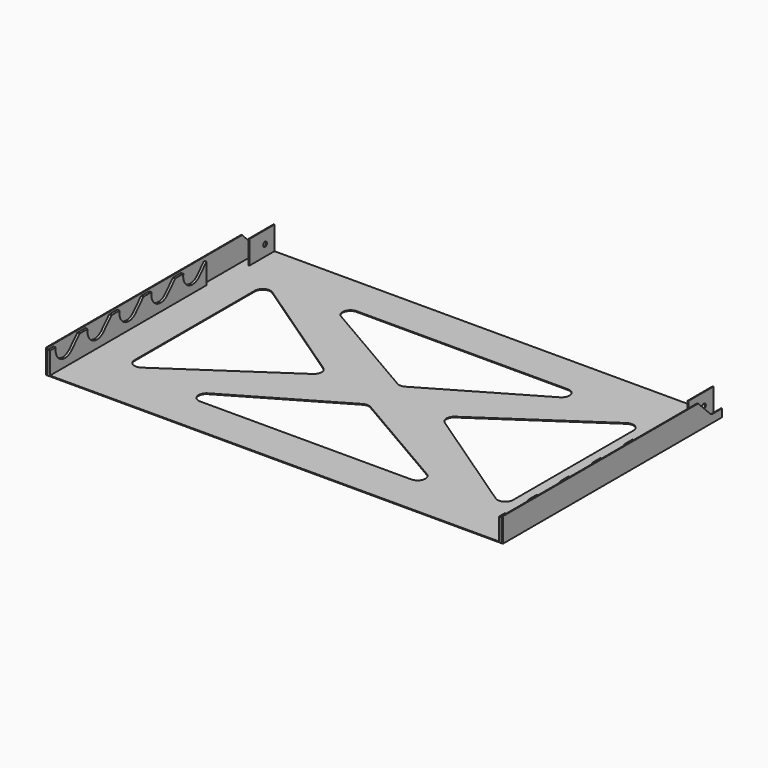
from build123d import *

# Parameters (mm, degrees)
F0_W      = 584
F0_H      = 350
F1_DEPTH  = 1
F2_W      = 1
F2_H      = 350
F3_DEPTH  = 30
F5_DEPTH  = 645
F6_W      = 1
F6_H      = 40
F7_DEPTH  = 30
F8_R      = 3
F9_DEPTH  = 565
F10_W     = 3
F10_H     = 250
F11_DEPTH = 28
F13_DEPTH = 291
F15_DEPTH = 25


with BuildPart() as f1:
    # F0 (on Top) → F1 (new body)
    with BuildSketch(Plane.XY):
        with Locations((0, -23.2696812643)):
            Rectangle(F0_W, F0_H)
    extrude(amount=F1_DEPTH)

    # F2 (on face) → F3 (join)
    with BuildSketch(Plane.XY.offset(1)):
        with Locations((-291.5, -23.2696812643)):
            Rectangle(F2_W, F2_H)
        with Locations((291.5, -23.2696812643)):
            Rectangle(F2_W, F2_H)
    extrude(amount=F3_DEPTH)

    # F4 (on face) → F5 (cut)
    with BuildSketch(Plane(origin=(-292, 0, 0), x_dir=(0, -1, 0), z_dir=(-1, 0, 0))):
        with BuildLine():
            Line((-136.7303187357, 15), (-136.7303187357, 10))
            ThreePointArc((-136.7303187357, 10), (-134.7165063478, 10.423477339), (-133.0438155245, 11.6221761335))
            ThreePointArc((-133.0438155245, 11.6221761335), (-132.0702481324, 13.1878901877), (-131.7303187357, 15))
            ThreePointArc((-131.7303187357, 15), (-132.1109210732, 16.9134171618), (-133.1947848298, 18.5355339059))
            Line((-133.1947848298, 18.5355339059), (-136.7303187357, 15))
        make_face()
        with BuildLine():
            Line((-151.7303187357, 10), (-136.7303187357, 10))
            ThreePointArc((-136.7303187357, 10), (-141.3497163983, 16.9134171618), (-133.1947848298, 18.5355339059))
            Line((-133.1947848298, 18.5355339059), (-120.7303187357, 31))
            Line((-120.7303187357, 31), (-151.7303187357, 31))
            Line((-151.7303187357, 31), (-151.7303187357, 10))
        make_face()
        with BuildLine():
            ThreePointArc((-133.1947848298, 18.5355339059), (-141.3497163983, 16.9134171618), (-136.7303187357, 10))
            Line((-136.7303187357, 10), (-136.7303187357, 15))
            Line((-136.7303187357, 15), (-133.1947848298, 18.5355339059))
        make_face()
        with BuildLine():
            ThreePointArc((-131.7303187357, 15), (-132.0702481324, 13.1878901877), (-133.0438155245, 11.6221761335))
            Line((-133.0438155245, 11.6221761335), (-113.6659916579, 31))
            Line((-113.6659916579, 31), (-120.7303187357, 31))
            Line((-120.7303187357, 31), (-133.1947848298, 18.5355339059))
            ThreePointArc((-133.1947848298, 18.5355339059), (-132.1109210732, 16.9134171618), (-131.7303187357, 15))
        make_face()
    extrude(amount=-F5_DEPTH, mode=Mode.SUBTRACT)

    # F6 (on face) → F7 (join)
    with BuildSketch(Plane.XY.offset(1)):
        with Locations((-280.5, 131.7303187357)):
            Rectangle(F6_W, F6_H)
        with Locations((280.5, 131.7303187357)):
            Rectangle(F6_W, F6_H)
    extrude(amount=F7_DEPTH)

    # F8 (on face) → F9 (cut)
    with BuildSketch(Plane(origin=(-281, 0, 0), x_dir=(0, -1, 0), z_dir=(-1, 0, 0))):
        with Locations((-136.7303187357, 15)):
            Circle(F8_R)
    extrude(amount=-F9_DEPTH, mode=Mode.SUBTRACT)

    # F10 (on face) → F11 (join)
    with BuildSketch(Plane.XY.offset(1)):
        with Locations((-288.5, -73.2696812643)):
            Rectangle(F10_W, F10_H)
        with Locations((288.5, -73.2696812643)):
            Rectangle(F10_W, F10_H)
    extrude(amount=F11_DEPTH)

    # F12 (on Right) → F13 (cut, symmetric)
    with BuildSketch(Plane.YZ):
        with BuildLine():
            ThreePointArc((-163.4468129313, 15.7271576906), (-160.4315110244, 20.4751748875), (-159.3769872614, 26))
            ThreePointArc((-159.3769872614, 26), (-165.262273131, 37.9131014568), (-178.2999187708, 40.4779352248))
            ThreePointArc((-178.2999187708, 40.4779352248), (-187.238776022, 18.2815552164), (-163.4468129313, 15.7271576906))
        make_face()
        with BuildLine():
            ThreePointArc((-178.2999187708, 40.4779352248), (-165.262273131, 37.9131014568), (-159.3769872614, 26))
            ThreePointArc((-159.3769872614, 26), (-160.4315110244, 20.4751748875), (-163.4468129313, 15.7271576906))
            Line((-163.4468129313, 15.7271576906), (-125.9341510427, 55.6401556402))
            Line((-125.9341510427, 55.6401556402), (-178.2999187708, 40.4779352248))
        make_face()
        with BuildLine():
            ThreePointArc((-112.4468129313, 15.7271576906), (-109.4315110244, 20.4751748875), (-108.3769872614, 26))
            ThreePointArc((-108.3769872614, 26), (-114.262273131, 37.9131014568), (-127.2999187708, 40.4779352248))
            ThreePointArc((-127.2999187708, 40.4779352248), (-136.238776022, 18.2815552164), (-112.4468129313, 15.7271576906))
        make_face()
        with BuildLine():
            ThreePointArc((-127.2999187708, 40.4779352248), (-114.262273131, 37.9131014568), (-108.3769872614, 26))
            ThreePointArc((-108.3769872614, 26), (-109.4315110244, 20.4751748875), (-112.4468129313, 15.7271576906))
            Line((-112.4468129313, 15.7271576906), (-74.9341510427, 55.6401556402))
            Line((-74.9341510427, 55.6401556402), (-127.2999187708, 40.4779352248))
        make_face()
        with BuildLine():
            ThreePointArc((-61.4468129313, 15.7271576906), (-58.4315110244, 20.4751748875), (-57.3769872614, 26))
            ThreePointArc((-57.3769872614, 26), (-63.262273131, 37.9131014568), (-76.2999187708, 40.4779352248))
            ThreePointArc((-76.2999187708, 40.4779352248), (-85.238776022, 18.2815552164), (-61.4468129313, 15.7271576906))
        make_face()
        with BuildLine():
            ThreePointArc((-76.2999187708, 40.4779352248), (-63.262273131, 37.9131014568), (-57.3769872614, 26))
            ThreePointArc((-57.3769872614, 26), (-58.4315110244, 20.4751748875), (-61.4468129313, 15.7271576906))
            Line((-61.4468129313, 15.7271576906), (-23.9341510427, 55.6401556402))
            Line((-23.9341510427, 55.6401556402), (-76.2999187708, 40.4779352248))
        make_face()
        with BuildLine():
            ThreePointArc((-10.4468129313, 15.7271576906), (-7.4315110244, 20.4751748875), (-6.3769872614, 26))
            ThreePointArc((-6.3769872614, 26), (-12.262273131, 37.9131014568), (-25.2999187708, 40.4779352248))
            ThreePointArc((-25.2999187708, 40.4779352248), (-34.238776022, 18.2815552164), (-10.4468129313, 15.7271576906))
        make_face()
        with BuildLine():
            ThreePointArc((-25.2999187708, 40.4779352248), (-12.262273131, 37.9131014568), (-6.3769872614, 26))
            ThreePointArc((-6.3769872614, 26), (-7.4315110244, 20.4751748875), (-10.4468129313, 15.7271576906))
            Line((-10.4468129313, 15.7271576906), (27.0658489573, 55.6401556402))
            Line((27.0658489573, 55.6401556402), (-25.2999187708, 40.4779352248))
        make_face()
        with BuildLine():
            ThreePointArc((40.5531870687, 15.7271576906), (43.5684889756, 20.4751748875), (44.6230127386, 26))
            ThreePointArc((44.6230127386, 26), (38.737726869, 37.9131014568), (25.7000812292, 40.4779352248))
            ThreePointArc((25.7000812292, 40.4779352248), (16.761223978, 18.2815552164), (40.5531870687, 15.7271576906))
        make_face()
        with BuildLine():
            ThreePointArc((25.7000812292, 40.4779352248), (38.737726869, 37.9131014568), (44.6230127386, 26))
            ThreePointArc((44.6230127386, 26), (43.5684889756, 20.4751748875), (40.5531870687, 15.7271576906))
            Line((40.5531870687, 15.7271576906), (78.0658489573, 55.6401556402))
            Line((78.0658489573, 55.6401556402), (25.7000812292, 40.4779352248))
        make_face()
    extrude(amount=F13_DEPTH, both=True, mode=Mode.SUBTRACT)

    # F14 (on face) → F15 (cut)
    with BuildSketch(Plane.XY.offset(1)):
        with BuildLine():
            ThreePointArc((-134.9042718153, 101.7303187357), (-144.5595998436, 94.3331327256), (-139.930476389, 83.0852468689))
            Line((-139.930476389, 83.0852468689), (-5.0262045737, 4.6525306972))
            ThreePointArc((-5.0262045737, 4.6525306972), (0, 3.297602564), (5.0262045737, 4.6525306972))
            Line((5.0262045737, 4.6525306972), (139.930476389, 83.0852468689))
            ThreePointArc((139.930476389, 83.0852468689), (144.5595998436, 94.3331327256), (134.9042718153, 101.7303187357))
            Line((134.9042718153, 101.7303187357), (-134.9042718153, 101.7303187357))
        make_face()
        with BuildLine():
            Line((-5.0262045737, -51.1918932258), (-139.930476389, -129.6246093974))
            ThreePointArc((-139.930476389, -129.6246093974), (-144.5595998436, -140.8724952541), (-134.9042718153, -148.2696812643))
            Line((-134.9042718153, -148.2696812643), (134.9042718153, -148.2696812643))
            ThreePointArc((134.9042718153, -148.2696812643), (144.5595998436, -140.8724952541), (139.930476389, -129.6246093974))
            Line((139.930476389, -129.6246093974), (5.0262045737, -51.1918932258))
            ThreePointArc((5.0262045737, -51.1918932258), (0, -49.8369650926), (-5.0262045737, -51.1918932258))
        make_face()
        with BuildLine():
            Line((-84.2441895854, -14.986847133), (-226.396906323, 81.1752847777))
            ThreePointArc((-226.396906323, 81.1752847777), (-236.6887665345, 81.7250871942), (-242, 72.8924506464))
            Line((-242, 72.8924506464), (-242, -119.431813175))
            ThreePointArc((-242, -119.431813175), (-236.6887665345, -128.2644497228), (-226.396906323, -127.7146473063))
            Line((-226.396906323, -127.7146473063), (-84.2441895854, -31.5525153956))
            ThreePointArc((-84.2441895854, -31.5525153956), (-79.8472832624, -23.2696812643), (-84.2441895854, -14.986847133))
        make_face()
        with BuildLine():
            Line((226.396906323, 81.1752847777), (84.2441895854, -14.986847133))
            ThreePointArc((84.2441895854, -14.986847133), (79.8472832624, -23.2696812643), (84.2441895854, -31.5525153956))
            Line((84.2441895854, -31.5525153956), (226.396906323, -127.7146473063))
            ThreePointArc((226.396906323, -127.7146473063), (236.6887665345, -128.2644497228), (242, -119.431813175))
            Line((242, -119.431813175), (242, 72.8924506464))
            ThreePointArc((242, 72.8924506464), (236.6887665345, 81.7250871942), (226.396906323, 81.1752847777))
        make_face()
    extrude(amount=-F15_DEPTH, mode=Mode.SUBTRACT)


solid = f1.part
